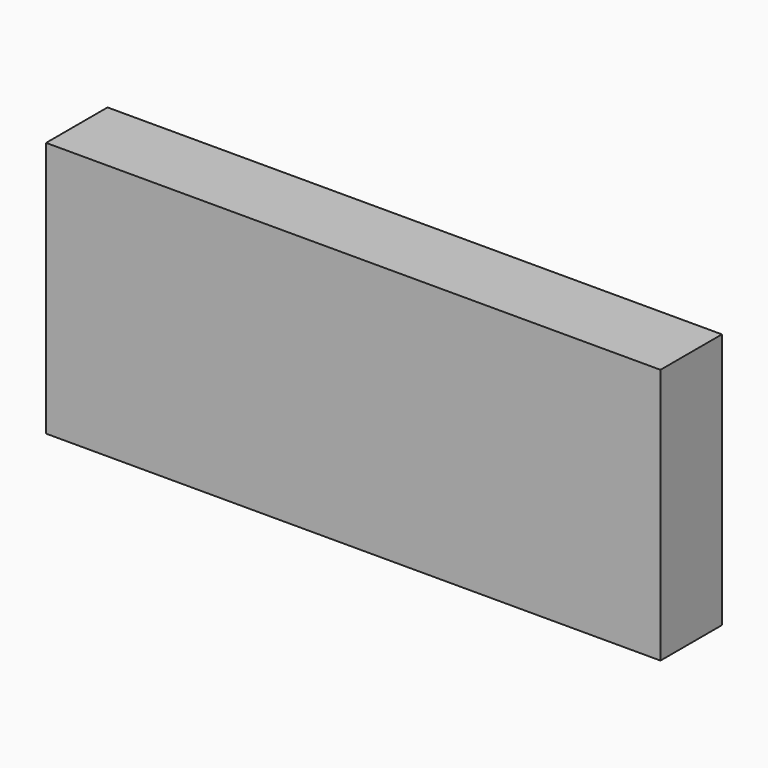
from build123d import *

# Parameters (mm, degrees)
SKETCH_W      = 120
SKETCH_H      = 15
EXTRUDE_DEPTH = 50


with BuildPart() as part:
    # Sketch → Extrude (new body)
    with BuildSketch(Plane.XY):
        Rectangle(SKETCH_W, SKETCH_H)
    extrude(amount=EXTRUDE_DEPTH)


solid = part.part
